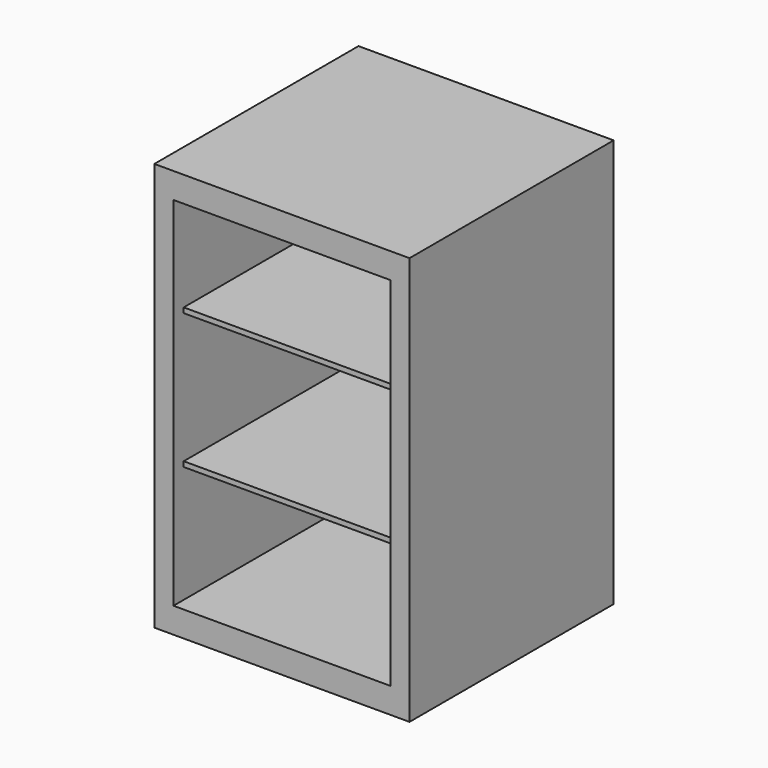
from build123d import *

# Parameters (mm, degrees)
F0_W     = 63.5
F0_H     = 101.6
F1_DEPTH = 31.75
F2_W     = 53.975
F2_H     = 88.9
F3_DEPTH = 57.15
F4_W     = 53.975
F4_H     = 1.27
F5_DEPTH = 28.575


with BuildPart() as f1:
    # F0 (on Front) → F1 (new body, symmetric)
    with BuildSketch(Plane.XZ):
        Rectangle(F0_W, F0_H)
    extrude(amount=F1_DEPTH, both=True)

    # F2 (on face) → F3 (cut)
    with BuildSketch(Plane.XZ.offset(31.75)):
        Rectangle(F2_W, F2_H)
    extrude(amount=-F3_DEPTH, mode=Mode.SUBTRACT)

    # F4 (on Front) → F5 (join, symmetric)
    with BuildSketch(Plane.XZ):
        with Locations((-0.089094, 18.991973)):
            Rectangle(F4_W, F4_H)
        with Locations((0, -14.710611)):
            Rectangle(F4_W, F4_H)
    extrude(amount=F5_DEPTH, both=True)


solid = f1.part
